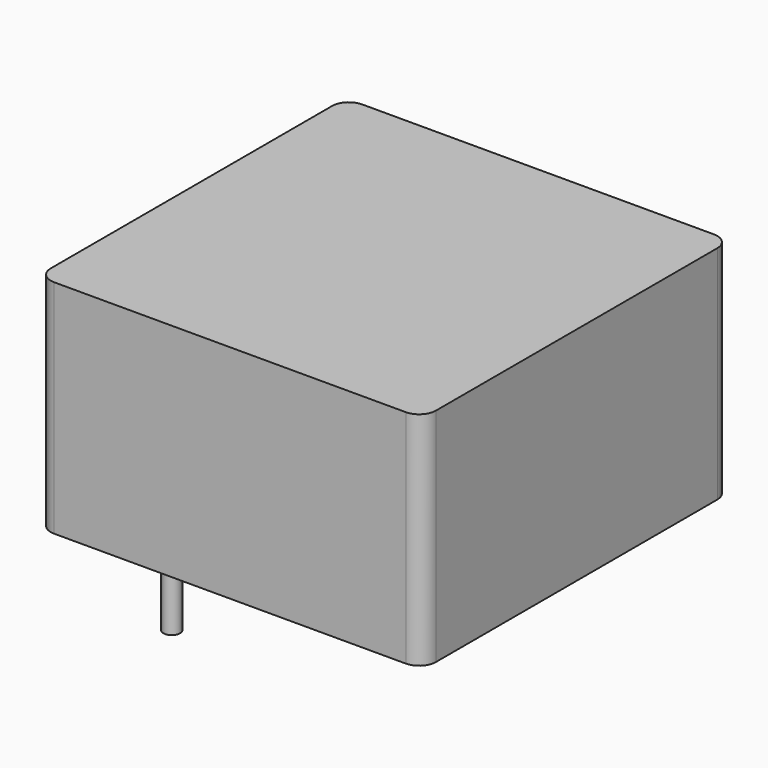
from build123d import *

# Parameters (mm, degrees)
SKETCH001_R  = 0.35
PAD001_DEPTH = 3.5
SKETCH_W     = 16.13
SKETCH_H     = 16.13
PAD_DEPTH    = 9.27
FILLET_R     = 0.7


with BuildPart() as pad001:
    # Sketch001 → Pad001 (new body)
    with BuildSketch(Plane.XY.offset(0.5)):
        Circle(SKETCH001_R)
        with Locations((7.62, 12.7)):
            Circle(SKETCH001_R)
    extrude(amount=-PAD001_DEPTH)


with BuildPart() as fillet_body:
    # Sketch → Pad (new body)
    with BuildSketch(Plane.XY.offset(0.1)):
        with Locations((3.81, 6.35)):
            Rectangle(SKETCH_W, SKETCH_H)
    extrude(amount=PAD_DEPTH)

    # Fillet
    fillet_edges = [fillet_body.edges().sort_by_distance(p)[0] for p in [
        (11.875, -1.715, 4.735),
        (11.875, 14.415, 4.735),
        (-4.255, -1.715, 4.735),
        (-4.255, 14.415, 4.735),
    ]]
    fillet(fillet_edges, radius=FILLET_R)


solid = Compound([pad001.part, fillet_body.part])
